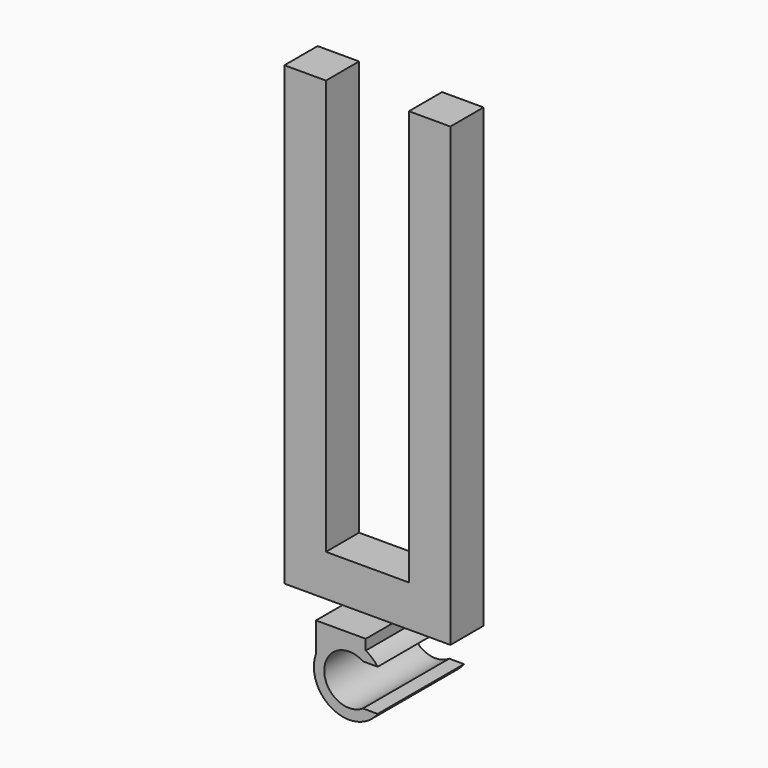
from build123d import *

# Parameters (mm, degrees)
F1_DEPTH = 73.66
F3_DEPTH = 73.66
F4_W     = 25.4
F4_H     = 6.349999
F4_H_2   = 6.35
F5_DEPTH = 69.85
F6_W     = 12.7
F6_H     = 63.5
F7_DEPTH = 63.5
F8_W     = 25.4
F8_H     = 82.55
F9_DEPTH = 57.15


with BuildPart() as f1:
    # F0 (on Front) → F1 (new body)
    with BuildSketch(Plane.XZ):
        with BuildLine():
            ThreePointArc((2.106057, -3.175), (-3.81, 0), (2.106057, 3.175))
            Line((2.106057, 3.175), (4.364903, 3.175))
            ThreePointArc((4.364903, 3.175), (-5.3975, 0), (4.364903, -3.175))
            Line((4.364903, -3.175), (2.106057, -3.175))
        make_face()
    extrude(amount=F1_DEPTH)

    # F2 (on face) → F3 (join, through all)
    with BuildSketch(Plane.XZ.offset(73.66)):
        with BuildLine():
            Line((-5.08, 6.35), (-5.08, 1.823899))
            ThreePointArc((-5.08, 1.823899), (-1.942098, 5.035997), (2.54, 4.7625))
            Line((2.54, 4.7625), (2.54, 6.35))
            Line((2.54, 6.35), (-5.08, 6.35))
        make_face()
    extrude(amount=-F3_DEPTH)

    # F4 (on face) → F5 (join)
    with BuildSketch(Plane.XY.offset(6.35)):
        with Locations((-1.27, -65.405)):
            Rectangle(F4_W, F4_H)
        with Locations((-1.27, -8.255)):
            Rectangle(F4_W, F4_H_2)
    extrude(amount=F5_DEPTH)

    # F6 (on face) → F7 (cut, through all)
    with BuildSketch(Plane.XZ.offset(68.58)):
        with Locations((-1.27, 44.45)):
            Rectangle(F6_W, F6_H)
    extrude(amount=-F7_DEPTH, mode=Mode.SUBTRACT)

    # F8 (on face) → F9 (cut)
    with BuildSketch(Plane(origin=(0, 0, 0), x_dir=(-1, 0, 0), z_dir=(0, 1, 0))):
        with Locations((1.27, 34.925)):
            Rectangle(F8_W, F8_H)
    extrude(amount=-F9_DEPTH, mode=Mode.SUBTRACT)


solid = f1.part
